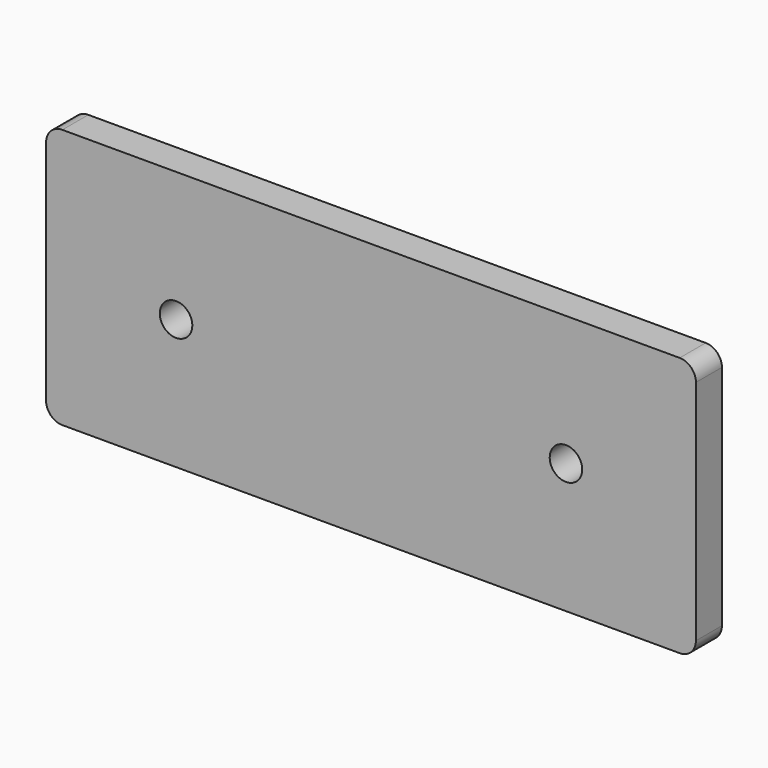
from build123d import *

# Parameters (mm, degrees)
F0_W     = 254
F0_H     = 101.6
F1_DEPTH = 12.7
F3_D     = 12.7
F4_R     = 6.35


with BuildPart() as f1:
    # F0 (on Front) → F1 (new body)
    with BuildSketch(Plane.XZ):
        with Locations((10.3322, 50.8)):
            Rectangle(F0_W, F0_H)
    extrude(amount=F1_DEPTH)

    # F3 (through all)
    with Locations(Plane.XZ.offset(12.7)):
        with Locations((-65.8678, 50.8), (86.5322, 50.8)):
            Hole(F3_D / 2)

    # F4
    f4_edges = [f1.edges().sort_by_distance(p)[0] for p in [
        (137.3322, -6.35, 101.6),
        (-116.6678, -6.35, 101.6),
        (137.3322, -6.35, 0),
        (-116.6678, -6.35, 0),
    ]]
    fillet(f4_edges, radius=F4_R)


solid = f1.part
